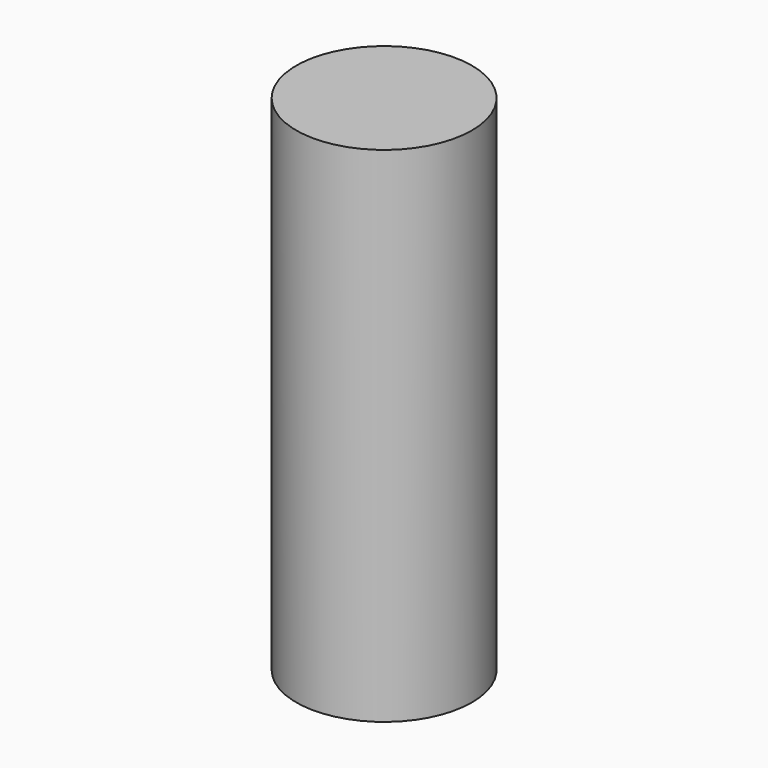
from build123d import *

# Parameters (mm, degrees)
CYLINDER_R     = 2.6162
CYLINDER_DEPTH = 15


with BuildPart() as part:
    # Cylinder → Cylinder (new body)
    with BuildSketch(Plane.XY.offset(-2.5)):
        Circle(CYLINDER_R)
    extrude(amount=CYLINDER_DEPTH)


solid = part.part
